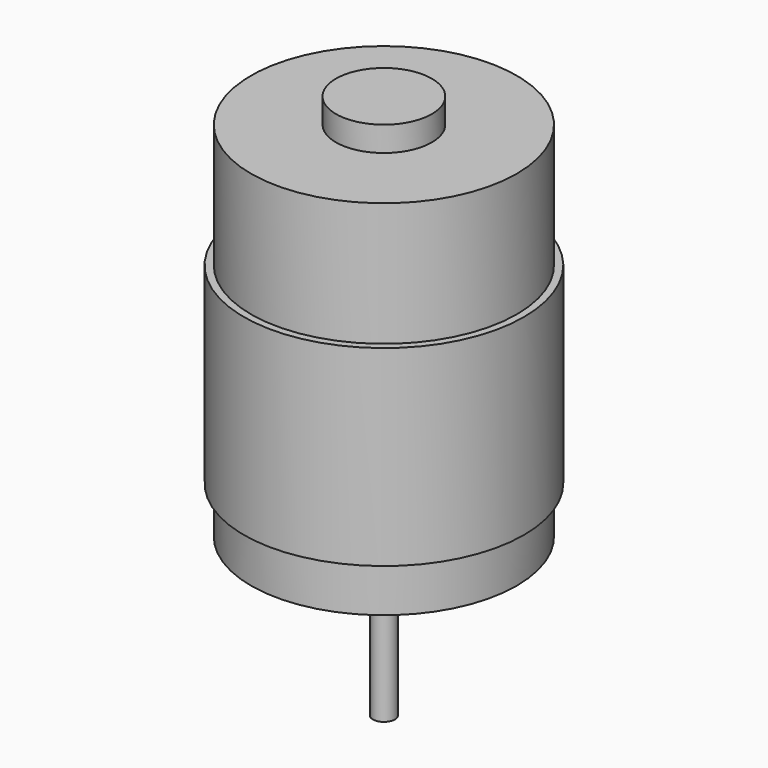
from build123d import *

# Parameters (mm, degrees)
SKETCH_R     = 13.85
PAD_DEPTH    = 37.8
SKETCH001_R  = 14.6
PAD001_DEPTH = 20
SKETCH002_R  = 5
PAD002_DEPTH = 2.6
SKETCH003_R  = 1.15
PAD003_DEPTH = 16.4
SKETCH004_R  = 5
PAD004_DEPTH = 2.6
SKETCH005_R  = 1.3
POCKET_DEPTH = 0.45


with BuildPart() as part:
    # Sketch → Pad (new body)
    with BuildSketch(Plane.XY):
        Circle(SKETCH_R)
    extrude(amount=PAD_DEPTH)

    # Sketch001 (on Face3 of Pad) → Pad001 (join)
    with BuildSketch(Plane.XY.offset(4.9)):
        Circle(SKETCH001_R)
    extrude(amount=PAD001_DEPTH)

    # Sketch002 (on Face7 of Pad001) → Pad002 (join)
    with BuildSketch(Plane.XY.offset(37.8)):
        Circle(SKETCH002_R)
    extrude(amount=PAD002_DEPTH)

    # Sketch003 (on Face2 of Pad002) → Pad003 (join)
    with BuildSketch(Plane(origin=(0, 0, 0), x_dir=(1, 0, 0), z_dir=(0, 0, -1))):
        Circle(SKETCH003_R)
    extrude(amount=PAD003_DEPTH)

    # Sketch004 (on Face2 of Pad003) → Pad004 (join)
    with BuildSketch(Plane(origin=(0, 0, 0), x_dir=(1, 0, 0), z_dir=(0, 0, -1))):
        Circle(SKETCH004_R)
    extrude(amount=PAD004_DEPTH)

    # Sketch005 (on Face2 of Pad004) → Pocket (cut)
    with BuildSketch(Plane(origin=(0, 0, 0), x_dir=(1, 0, 0), z_dir=(0, 0, -1))):
        with Locations((8, 0)):
            Circle(SKETCH005_R)
        with Locations((-8, 0)):
            Circle(SKETCH005_R)
    extrude(amount=-POCKET_DEPTH, mode=Mode.SUBTRACT)


solid = part.part
